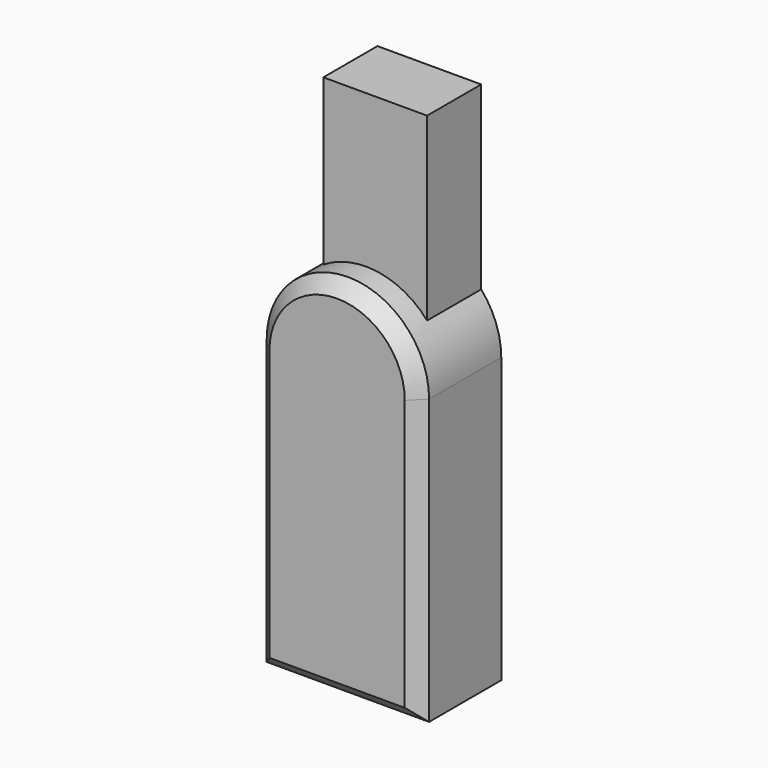
from build123d import *

# Parameters (mm, degrees)
F0_W     = 36
F0_H     = 63
F1_DEPTH = 23
F2_SIZE  = 3
F4_DEPTH = 15


with BuildPart() as f1:
    # F0 (on Front) → F1 (new body)
    with BuildSketch(Plane.XZ):
        with BuildLine():
            ThreePointArc((36, 63), (18, 81), (0, 63))
            Line((0, 63), (36, 63))
        make_face()
        with Locations((18, 31.5)):
            Rectangle(F0_W, F0_H)
    extrude(amount=F1_DEPTH)

    # F2
    f2_edges = [f1.edges().sort_by_distance(p)[0] for p in [
        (18, -23, 81),
        (0, -23, 31.5),
        (18, -23, 0),
        (36, -23, 31.5),
    ]]
    chamfer(f2_edges, length=F2_SIZE)

    # F3 (on Front) → F4 (join)
    with BuildSketch(Plane.XZ):
        with BuildLine():
            ThreePointArc((8.550904, 78.320398), (9.400963, 78.813177), (10.276645, 79.258837))
            ThreePointArc((10.276645, 79.258837), (21.654333, 80.625148), (31.550904, 74.847911))
            Line((31.550904, 74.847911), (31.550904, 114.847911))
            Line((31.550904, 114.847911), (8.550904, 114.847911))
            Line((8.550904, 114.847911), (8.550904, 78.320398))
        make_face()
        with BuildLine():
            ThreePointArc((31.550904, 74.847911), (21.654333, 80.625148), (10.276645, 79.258837))
            ThreePointArc((10.276645, 79.258837), (9.400963, 78.813177), (8.550904, 78.320398))
            Line((8.550904, 78.320398), (8.550904, 74.847911))
            Line((8.550904, 74.847911), (31.550904, 74.847911))
        make_face()
    extrude(amount=F4_DEPTH)


solid = f1.part
